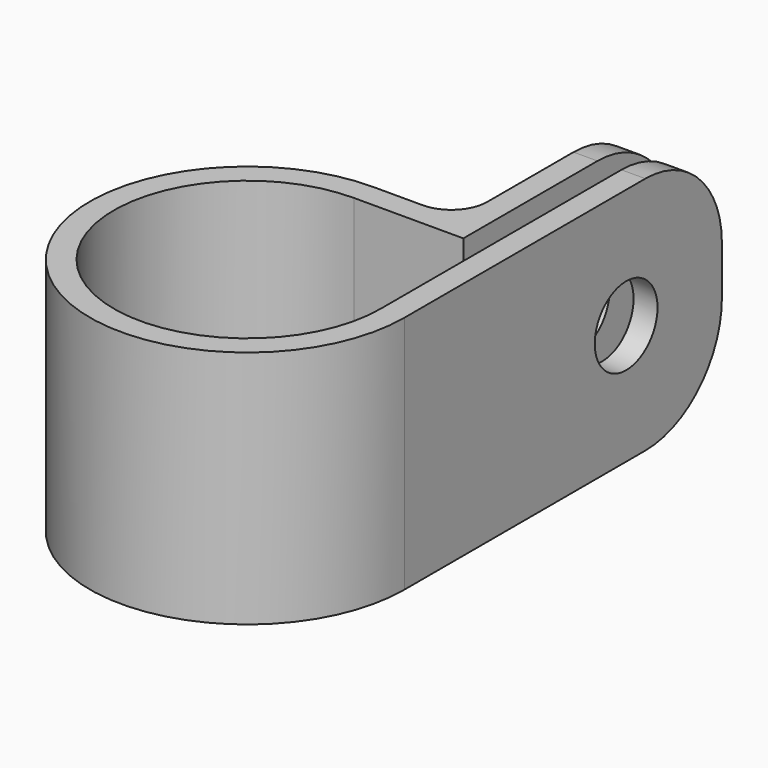
from build123d import *

# Parameters (mm, degrees)
F1_DEPTH = 10
F2_R     = 3.275
F3_DEPTH = 13.1418462065
F4_R     = 3
F5_R     = 8


with BuildPart() as f1:
    # F0 (on Top) → F1 (new body, symmetric)
    with BuildSketch(Plane.XY):
        with BuildLine():
            Line((11.1408462065, 6.968743418), (11.1408462065, 0))
            ThreePointArc((11.1408462065, 0), (-7.8777679008, -7.8777679008), (0, 11.1408462065))
            Line((0, 11.1408462065), (6.968743418, 11.1408462065))
            ThreePointArc((6.968743418, 11.1408462065), (3.6250305111, 12.6309537572), (0, 13.1408462065))
            ThreePointArc((0, 13.1408462065), (-9.2919814631, -9.2919814631), (13.1408462065, 0))
            ThreePointArc((13.1408462065, 0), (12.6309537572, 3.6250305111), (11.1408462065, 6.968743418))
        make_face()
        with BuildLine():
            ThreePointArc((0, 13.1408462065), (3.6250305111, 12.6309537572), (6.968743418, 11.1408462065))
            Line((6.968743418, 11.1408462065), (9.1408462065, 11.1408462065))
            Line((9.1408462065, 11.1408462065), (9.1408462065, 33.1408462065))
            Line((9.1408462065, 33.1408462065), (7.1408462065, 33.1408462065))
            Line((7.1408462065, 33.1408462065), (7.1408462065, 13.1408462065))
            Line((7.1408462065, 13.1408462065), (0, 13.1408462065))
        make_face()
        with BuildLine():
            Line((11.1408462065, 33.1408462065), (11.1408462065, 6.968743418))
            ThreePointArc((11.1408462065, 6.968743418), (12.6309537572, 3.6250305111), (13.1408462065, 0))
            Line((13.1408462065, 0), (13.1408462065, 33.1408462065))
            Line((13.1408462065, 33.1408462065), (11.1408462065, 33.1408462065))
        make_face()
    extrude(amount=F1_DEPTH, both=True)

    # F2 (on Right) → F3 (cut, through all)
    with BuildSketch(Plane.YZ):
        with Locations((23.1408462065, 0)):
            Circle(F2_R)
    extrude(amount=F3_DEPTH, mode=Mode.SUBTRACT)

    # F4
    f4_edges = [f1.edges().sort_by_distance(p)[0] for p in [
        (7.140846, 13.140846, 0),
    ]]
    fillet(f4_edges, radius=F4_R)

    # F5
    f5_edges = [f1.edges().sort_by_distance(p)[0] for p in [
        (8.140846, 33.140846, 10),
        (12.140846, 33.140846, 10),
        (12.140846, 33.140846, -10),
        (8.140846, 33.140846, -10),
    ]]
    fillet(f5_edges, radius=F5_R)


solid = f1.part
